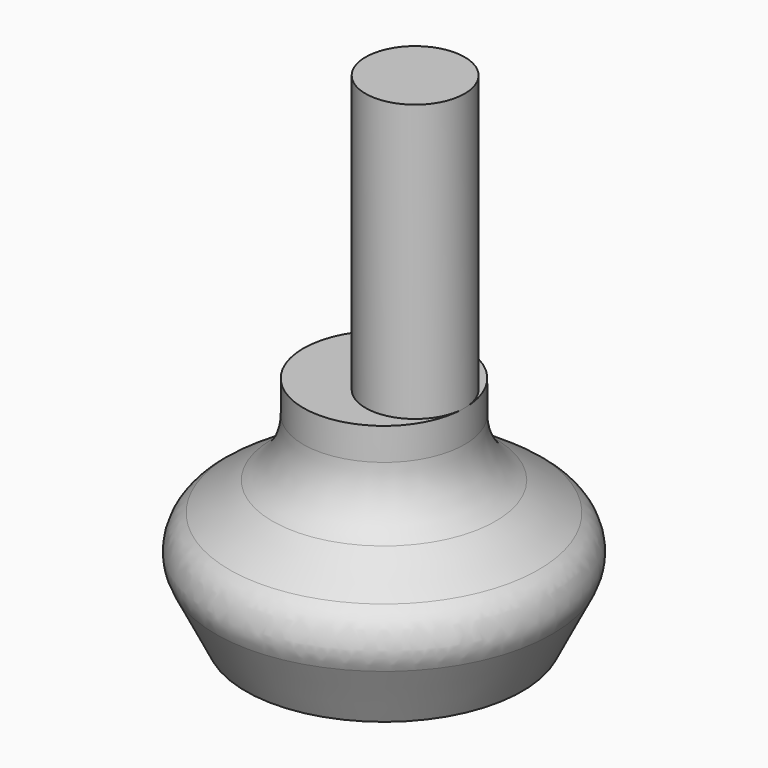
from build123d import *

# Parameters (mm, degrees)
F2_R     = 1.766966
F3_R     = 2.15
F4_DEPTH = 12


with BuildPart() as f1:
    # F0 (on Front) → F1 (revolve)
    with BuildSketch(Plane.XZ):
        with BuildLine():
            Line((-6, 0), (0, 0))
            Line((0, 0), (0, 10))
            Line((0, 10), (-3.5, 10))
            Line((-3.5, 10), (-3.5, 8.605551))
            ThreePointArc((-3.5, 8.605551), (-3.854976, 7.189977), (-4.835899, 6.1094))
            Line((-4.835899, 6.1094), (-8, 4))
            Line((-8, 4), (-6, 0))
        make_face()
    revolve(axis=Axis((0, 0, 5), (0, 0, -1)))

    # F2
    f2_edges = [f1.edges().sort_by_distance(p)[0] for p in [
        (8, 0, 4),
    ]]
    fillet(f2_edges, radius=F2_R)

    # F3 (on face) → F4 (join)
    with BuildSketch(Plane.XY.offset(10)):
        with Locations((1.35, 0)):
            Circle(F3_R)
    extrude(amount=F4_DEPTH)


solid = f1.part
